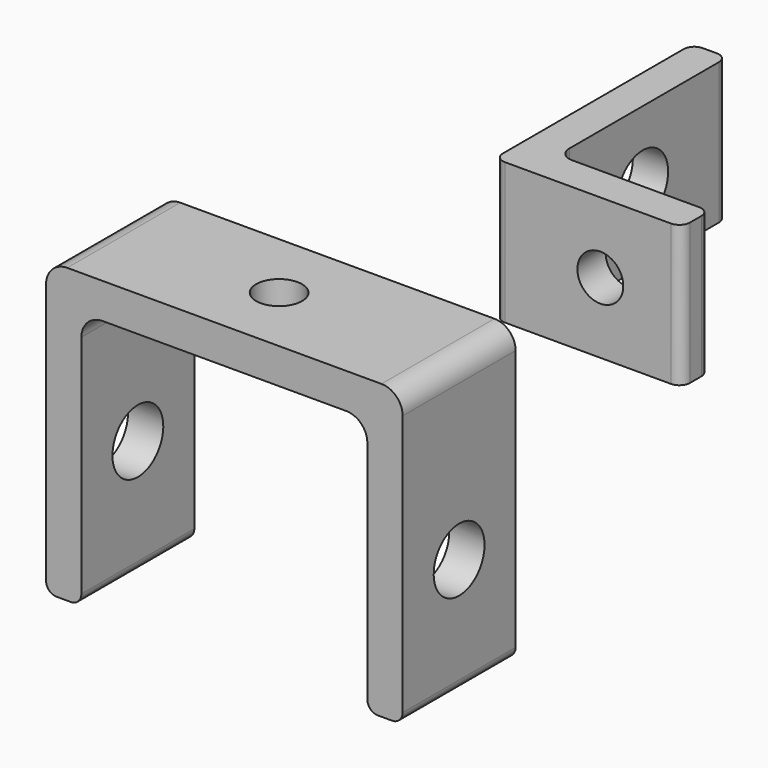
from build123d import *

# Parameters (mm, degrees)
PAD_DEPTH       = 20
SKETCH001_R     = 4.5
POCKET_DEPTH    = 5
SKETCH002_R     = 3.25
POCKET001_DEPTH = 5
PAD001_DEPTH    = 20
SKETCH004_R     = 3.25
POCKET002_DEPTH = 5
SKETCH005_R     = 4.5
POCKET003_DEPTH = 60


with BuildPart() as optical_table_support:
    # Sketch → Pad (new body)
    with BuildSketch(Plane.XY):
        with BuildLine():
            Line((0, 33.5), (0, 1.5))
            ThreePointArc((0, 1.5), (0.43934, 0.43934), (1.5, 0))
            Line((1.5, 0), (25, 0))
            ThreePointArc((25, 0), (26.06066, 0.43934), (26.5, 1.5))
            Line((26.5, 1.5), (26.5, 3.5))
            ThreePointArc((26.5, 3.5), (26.06066, 4.56066), (25, 5))
            Line((25, 5), (7, 5))
            ThreePointArc((5, 7), (5.585786, 5.585786), (7, 5))
            Line((5, 7), (5, 33.5))
            ThreePointArc((5, 33.5), (4.56066, 34.56066), (3.5, 35))
            Line((3.5, 35), (1.5, 35))
            ThreePointArc((1.5, 35), (0.43934, 34.56066), (0, 33.5))
        make_face()
    extrude(amount=PAD_DEPTH)

    # Sketch001 (on Face1 of Pad) → Pocket (cut)
    with BuildSketch(Plane.YZ.offset(5)):
        with Locations((20, 10)):
            Circle(SKETCH001_R)
    extrude(amount=-POCKET_DEPTH, mode=Mode.SUBTRACT)

    # Sketch002 (on Face7 of Pocket) → Pocket001 (cut)
    with BuildSketch(Plane(origin=(0, 5, 0), x_dir=(-1, 0, 0), z_dir=(0, 1, 0))):
        with Locations((-15, 10)):
            Circle(SKETCH002_R)
    extrude(amount=-POCKET001_DEPTH, mode=Mode.SUBTRACT)


with BuildPart() as lens_support:
    # Sketch003 → Pad001 (new body)
    with BuildSketch(Plane.XZ):
        with BuildLine():
            Line((-44.5, 0), (0, 0))
            ThreePointArc((3, -3), (2.12132, -0.87868), (0, 0))
            Line((3, -40), (3, -3))
            ThreePointArc((1.5, -41.5), (2.56066, -41.06066), (3, -40))
            Line((-0.5, -41.5), (1.5, -41.5))
            ThreePointArc((-2, -40), (-1.56066, -41.06066), (-0.5, -41.5))
            Line((-2, -8), (-2, -40))
            ThreePointArc((-2, -8), (-2.87868, -5.87868), (-5, -5))
            Line((-39.5, -5), (-5, -5))
            ThreePointArc((-39.5, -5), (-41.62132, -5.87868), (-42.5, -8))
            Line((-42.5, -40), (-42.5, -8))
            ThreePointArc((-44, -41.5), (-42.93934, -41.06066), (-42.5, -40))
            Line((-46, -41.5), (-44, -41.5))
            ThreePointArc((-47.5, -40), (-47.06066, -41.06066), (-46, -41.5))
            Line((-47.5, -3), (-47.5, -40))
            ThreePointArc((-44.5, 0), (-46.62132, -0.87868), (-47.5, -3))
        make_face()
    extrude(amount=PAD001_DEPTH)

    # Sketch004 (on Face2 of Pad001) → Pocket002 (cut)
    with BuildSketch(Plane(origin=(0, 0, 0), x_dir=(-1, 0, 0), z_dir=(0, 0, 1))):
        with Locations((22.5, 10)):
            Circle(SKETCH004_R)
    extrude(amount=-POCKET002_DEPTH, mode=Mode.SUBTRACT)

    # Sketch005 (on Face9 of Pocket002) → Pocket003 (cut)
    with BuildSketch(Plane(origin=(3, 0, 0), x_dir=(0, 0, 1), z_dir=(1, 0, 0))):
        with Locations((-25, 10)):
            Circle(SKETCH005_R)
    extrude(amount=-POCKET003_DEPTH, mode=Mode.SUBTRACT)


solid = Compound([optical_table_support.part, lens_support.part])
